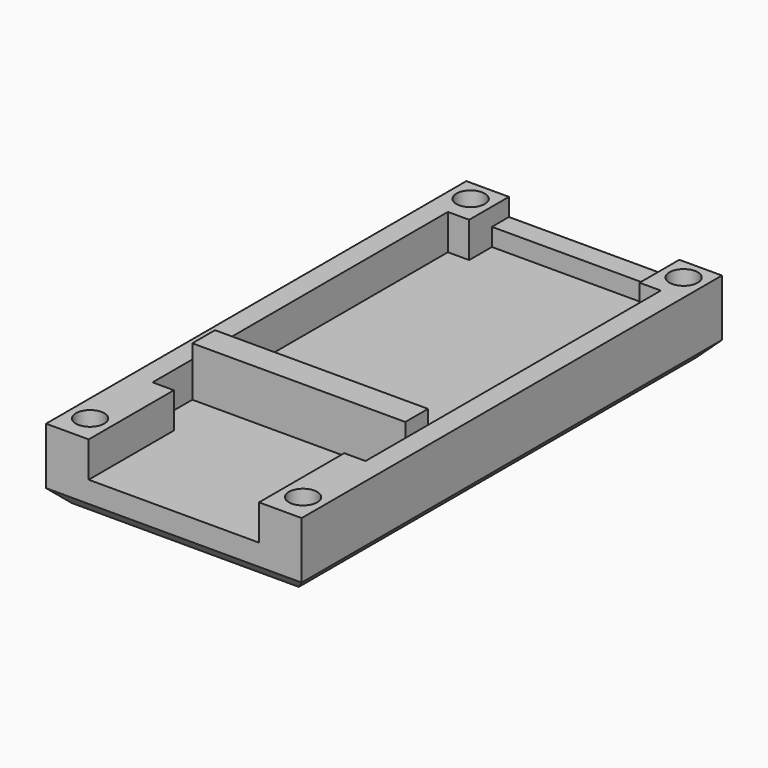
from build123d import *

# Parameters (mm, degrees)
F1_DEPTH  = 37
F2_W      = 12
F2_H      = 1.25
F3_DEPTH  = 2
F5_DEPTH  = 2.5
F7_W      = 15
F7_H      = 2
F8_DEPTH  = 3.5
F9_R      = 1
F9_R_2    = 0.9349601775
F10_DEPTH = 2
F11_SIZE  = 1


with BuildPart() as f1:
    # F0 (on Front) → F1 (new body)
    with BuildSketch(Plane.XZ):
        Polygon((-9, 1), (-8, 0), (8, 0), (9, 1), (9, 5), (6, 5), (6, 2.5), (-6, 2.5), (-6, 5), (-9, 5), align=None)
    extrude(amount=F1_DEPTH)

    # F2 (on face) → F3 (join)
    with BuildSketch(Plane(origin=(0, 0, 0), x_dir=(-1, 0, 0), z_dir=(0, 1, 0))):
        with Locations((0, 3.125)):
            Rectangle(F2_W, F2_H)
    extrude(amount=-F3_DEPTH)

    # F4 (on face) → F5 (cut, through all)
    with BuildSketch(Plane.XY.offset(5)):
        Polygon((-7.5, -3.5), (-7.5, -29.5), (-6, -29.5), (-6, -35.5), (6, -35.5), (6, -29.5), (7.5, -29.5), (7.5, -3.5), (6, -3.5), (6, -1.5), (-6, -1.5), (-6, -3.5), align=None)
    extrude(amount=-F5_DEPTH, mode=Mode.SUBTRACT)

    # F7 (on offset) → F8 (join, through all)
    with BuildSketch(Plane.XY.offset(6)):
        with Locations((0, -25)):
            Rectangle(F7_W, F7_H)
    extrude(amount=-F8_DEPTH)

    # F9 (on face) → F10 (cut)
    with BuildSketch(Plane.XY.offset(5)):
        with Locations((-7.5, -35)):
            Circle(F9_R)
        with Locations((134.6376875191, -34.7655261621)):
            Circle(F9_R_2)
        with Locations((7.5, -35)):
            Circle(F9_R)
        with Locations((-7.5, -1.5)):
            Circle(F9_R)
        with Locations((7.5, -1.5)):
            Circle(F9_R)
    extrude(amount=-F10_DEPTH, mode=Mode.SUBTRACT)

    # F11
    f11_edges = [f1.edges().sort_by_distance(p)[0] for p in [
        (0, 0, 0),
        (0, -37, 0),
    ]]
    chamfer(f11_edges, length=F11_SIZE)


solid = f1.part
